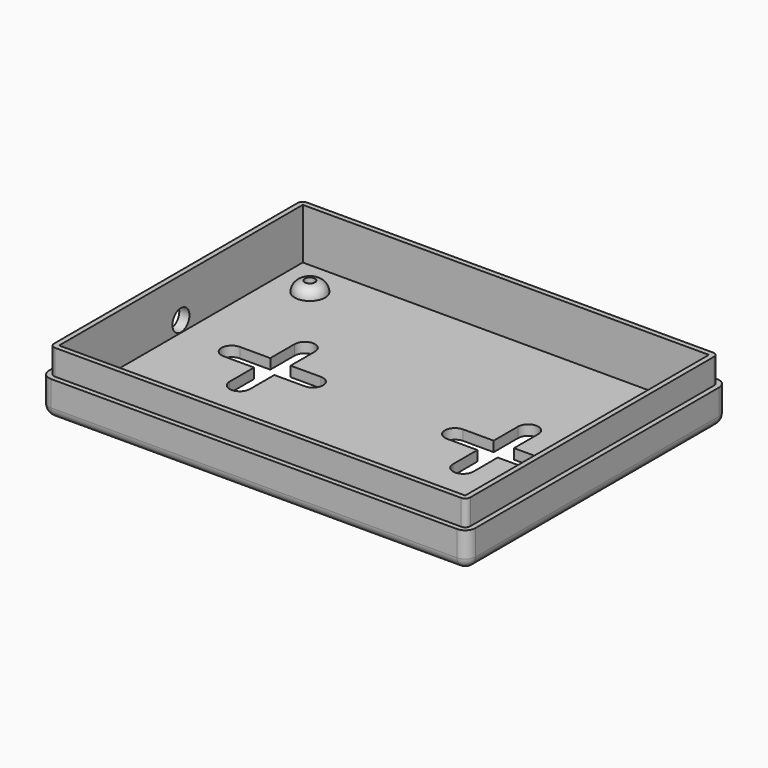
from build123d import *

# Parameters (mm, degrees)
BOX_W           = 80
BOX_H           = 60
BOX_DEPTH       = 10
THICKNESS_T     = 2
POCKET_DEPTH    = 5
SKETCH006_R     = 1
POCKET001_DEPTH = 12.001
POCKET002_DEPTH = 12.001
SKETCH011_R     = 2.1
POCKET003_DEPTH = 2


with BuildPart() as standoff:
    # Sketch010 → Revolution (revolve)
    with BuildSketch(Plane.XZ):
        with BuildLine():
            ThreePointArc((-1, 2), (-2.414214, 1.414214), (-3, 0))
            Line((-3, 0), (0, 0))
            Line((0, 2), (0, 0))
            Line((-1, 2), (0, 2))
        make_face()
    revolve(axis=Axis((0, 0, 0), (0, 0, 1)))


with BuildPart() as standofftopleft:
    # Clone004 base: copy of StandOff
    add(standoff.part)


with BuildPart() as standofftopleft_1:
    # Clone004 placement: moved
    add(standofftopleft.part.moved(Location((7, 53, 0))))


with BuildPart() as standofftopright:
    # Clone005 base: copy of StandOff
    add(standoff.part)


with BuildPart() as standofftopright_1:
    # Clone005 placement: moved
    add(standofftopright.part.moved(Location((73, 53, 0))))


with BuildPart() as standoffbottomright:
    # Clone006 base: copy of StandOff
    add(standoff.part)


with BuildPart() as standoffbottomright_1:
    # Clone006 placement: moved
    add(standoffbottomright.part.moved(Location((73, 7, 0))))


with BuildPart() as standoffbottomleft:
    # Clone007 base: copy of StandOff
    add(standoff.part)


with BuildPart() as standoffbottomleft_1:
    # Clone007 placement: moved
    add(standoffbottomleft.part.moved(Location((7, 7, 0))))


with BuildPart() as obj1:
    # Box → Box (new body)
    with BuildSketch(Plane.XY):
        with Locations((40, 30)):
            Rectangle(BOX_W, BOX_H)
    extrude(amount=BOX_DEPTH)

    # Thickness
    thickness_openings = [obj1.faces().sort_by_distance(p)[0] for p in [
        (40, 30, 10),
    ]]
    offset(amount=THICKNESS_T, openings=thickness_openings)

    # Sketch004 → Pocket (cut)
    with BuildSketch(Plane.XY.offset(10)):
        with BuildLine():
            Line((0, 62), (80, 62))
            ThreePointArc((82, 60), (81.414214, 61.414214), (80, 62))
            Line((82, 60), (82, 0))
            ThreePointArc((80, -2), (81.414214, -1.414214), (82, 0))
            Line((80, -2), (0, -2))
            ThreePointArc((-2, 0), (-1.414214, -1.414214), (0, -2))
            Line((-2, 0), (-2, 60))
            ThreePointArc((0, 62), (-1.414214, 61.414214), (-2, 60))
        make_face()
        with BuildLine():
            Line((0, 61), (80, 61))
            ThreePointArc((81, 60), (80.707107, 60.707107), (80, 61))
            Line((81, 60), (81, 0))
            ThreePointArc((80, -1), (80.707107, -0.707107), (81, 0))
            Line((80, -1), (0, -1))
            ThreePointArc((-1, 0), (-0.707107, -0.707107), (0, -1))
            Line((-1, 0), (-1, 60))
            ThreePointArc((0, 61), (-0.707107, 60.707107), (-1, 60))
        make_face(mode=Mode.SUBTRACT)
    extrude(amount=-POCKET_DEPTH, mode=Mode.SUBTRACT)

    # Fusion002: union StandOffTopLeft, StandOffTopRight, StandOffBottomRight, StandOffBottomLeft
    add(standofftopleft_1.part)
    add(standofftopright_1.part)
    add(standoffbottomright_1.part)
    add(standoffbottomleft_1.part)

    # Sketch006 → Pocket001 (cut, through all)
    with BuildSketch(Plane(origin=(0, 0, -2), x_dir=(1, 0, 0), z_dir=(0, 0, -1))):
        with Locations((7, -7)):
            Circle(SKETCH006_R)
        with Locations((7, -53)):
            Circle(SKETCH006_R)
        with Locations((73, -53)):
            Circle(SKETCH006_R)
        with Locations((73, -7)):
            Circle(SKETCH006_R)
    extrude(amount=-POCKET001_DEPTH, mode=Mode.SUBTRACT)

    # Sketch009 → Pocket002 (cut, through all)
    with BuildSketch(Plane(origin=(0, 0, -2), x_dir=(1, 0, 0), z_dir=(0, 0, -1))):
        with BuildLine():
            Line((10, -28), (16, -28))
            Line((16, -28), (16, -22))
            ThreePointArc((20, -22), (18, -20), (16, -22))
            Line((20, -22), (20, -28))
            Line((20, -28), (26, -28))
            ThreePointArc((26, -32), (28, -30), (26, -28))
            Line((26, -32), (20, -32))
            Line((20, -32), (20, -38))
            ThreePointArc((16, -38), (18, -40), (20, -38))
            Line((16, -38), (16, -32))
            Line((16, -32), (10, -32))
            ThreePointArc((10, -28), (8, -30), (10, -32))
        make_face()
        with BuildLine():
            ThreePointArc((54, -28), (52, -30), (54, -32))
            Line((54, -32), (60, -32))
            Line((60, -32), (60, -38))
            ThreePointArc((60, -38), (62, -40), (64, -38))
            Line((64, -38), (64, -32))
            Line((64, -32), (70, -32))
            ThreePointArc((70, -32), (72, -30), (70, -28))
            Line((70, -28), (64, -28))
            Line((64, -22), (64, -28))
            ThreePointArc((64, -22), (62, -20), (60, -22))
            Line((60, -28), (60, -22))
            Line((54, -28), (60, -28))
        make_face()
    extrude(amount=-POCKET002_DEPTH, mode=Mode.SUBTRACT)

    # Sketch011 → Pocket003 (cut)
    with BuildSketch(Plane(origin=(-2, 0, 0), x_dir=(0, -1, 0), z_dir=(-1, 0, 0))):
        with Locations((-30, 2.2)):
            Circle(SKETCH011_R)
    extrude(amount=-POCKET003_DEPTH, mode=Mode.SUBTRACT)


solid = obj1.part
